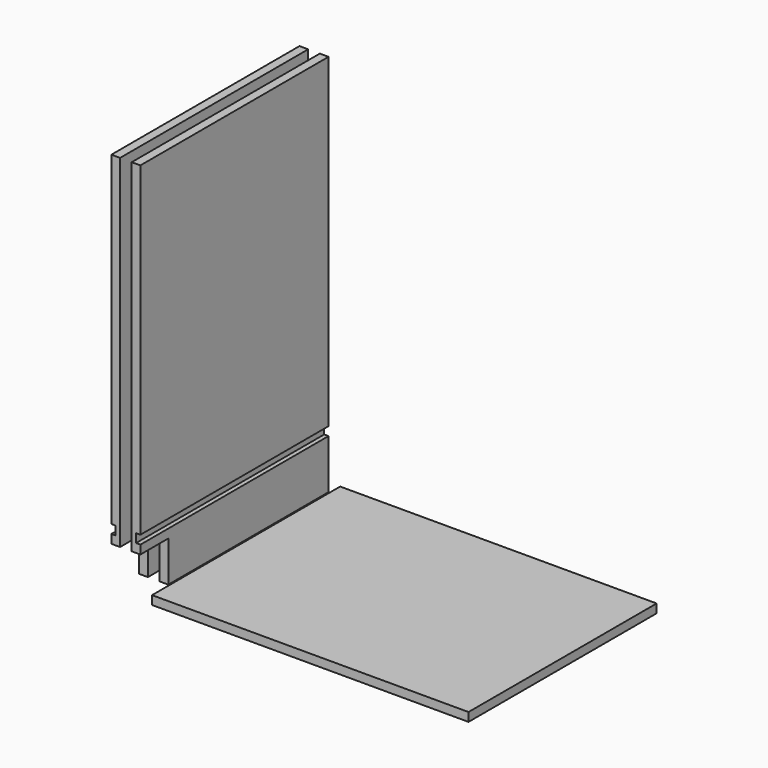
from build123d import *

# Parameters (mm, degrees)
F1_DEPTH = 514.35
F2_W     = 692.15
F2_H     = 19.05
F3_DEPTH = 514.35
F4_W     = 76.2
F4_H     = 88.9
F5_DEPTH = 76.2


with BuildPart() as f1:
    # F0 (on Front) → F1 (new body)
    with BuildSketch(Plane.XZ):
        Polygon((0, 838.2), (0, 0), (19.05, 0), (19.05, 107.95), (9.525, 107.95), (9.525, 127), (19.05, 127), (19.05, 838.2), align=None)
        Polygon((-44.45, 0), (-25.4, 0), (-25.4, 838.2), (-44.45, 838.2), (-44.45, 127), (-34.925, 127), (-34.925, 107.95), (-44.45, 107.95), align=None)
    extrude(amount=F1_DEPTH)

    # F4 (on face) → F5 (cut)
    with BuildSketch(Plane(origin=(-44.45, 0, 0), x_dir=(0, -1, 0), z_dir=(-1, 0, 0))):
        with Locations((476.25, 44.45)):
            Rectangle(F4_W, F4_H)
    extrude(amount=-F5_DEPTH, mode=Mode.SUBTRACT)


with BuildPart() as f3:
    # F2 (on Front) → F3 (new body)
    with BuildSketch(Plane.XZ):
        with Locations((390.607703, 9.525)):
            Rectangle(F2_W, F2_H)
    extrude(amount=F3_DEPTH)


solid = Compound([f1.part, f3.part])
